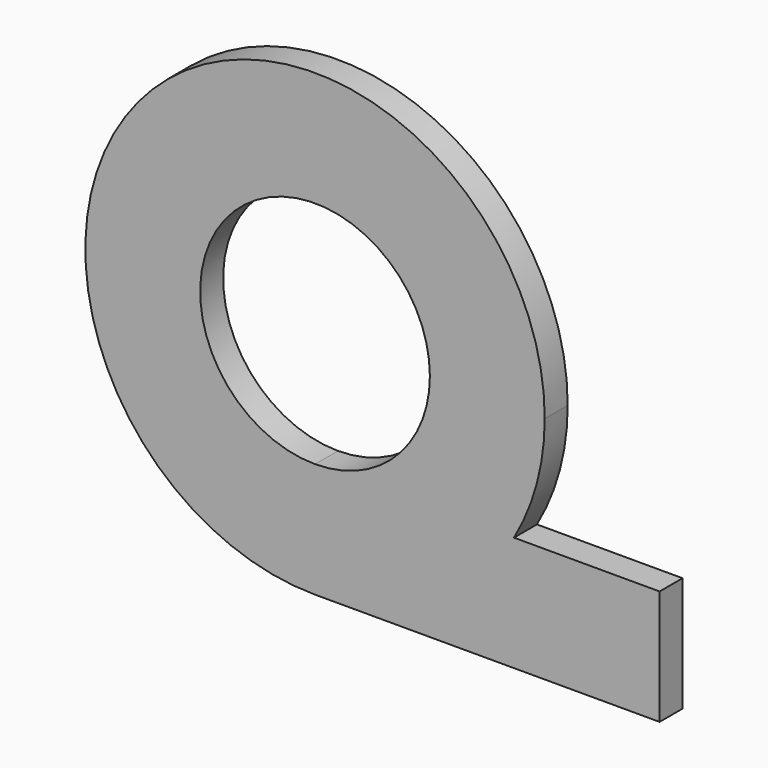
from build123d import *

# Parameters (mm, degrees)
F1_DEPTH = 1.5


with BuildPart() as f1:
    # F0 (on Front) → F1 (new body)
    with BuildSketch(Plane.XZ):
        with BuildLine():
            Line((0, -12), (0, -6))
            Line((0, -6), (10.392305, -6))
            ThreePointArc((10.392305, -6), (11.59111, -3.105829), (12, 0))
            ThreePointArc((12, 0), (-8.485281, 8.485281), (0, -12))
        make_face()
        with BuildLine():
            ThreePointArc((0, -6), (-4.242641, 4.242641), (6, 0))
            ThreePointArc((6, 0), (4.242641, -4.242641), (0, -6))
        make_face(mode=Mode.SUBTRACT)
        with BuildLine():
            Line((18, -6), (10.392305, -6))
            ThreePointArc((10.392305, -6), (6, -10.392305), (0, -12))
            Line((0, -12), (18, -12))
            Line((18, -12), (18, -6))
        make_face()
        with BuildLine():
            Line((10.392305, -6), (0, -6))
            Line((0, -6), (0, -12))
            ThreePointArc((0, -12), (6, -10.392305), (10.392305, -6))
        make_face()
    extrude(amount=F1_DEPTH)


solid = f1.part
